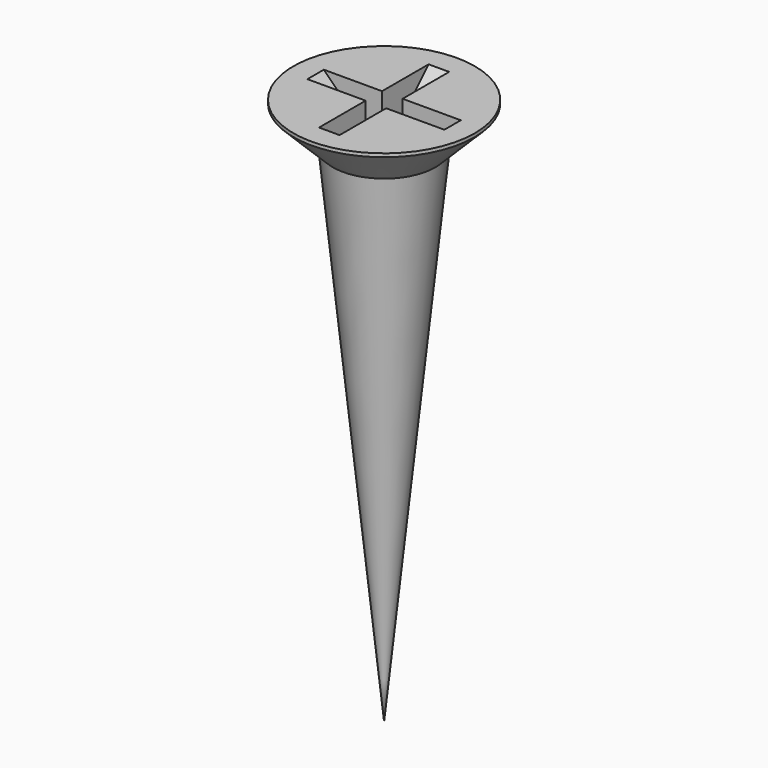
from build123d import *

# Parameters (mm, degrees)
POCKET_DEPTH       = 0.3
POLARPATTERN_COUNT = 2
POLARPATTERN_ANGLE = 90


with BuildPart() as part:
    # Sketch → Revolution (revolve)
    with BuildSketch(Plane.XZ):
        Polygon((0, 0), (0, -16), (1.5, -1.25), (2.65, -0.1), (2.65, 0), align=None)
    revolve(axis=Axis((0, 0, 0), (0, 0, 1)))

    # Sketch001 → Pocket (cut, symmetric)
    with BuildSketch(Plane.XZ):
        Polygon((-2, 0), (0, -2), (2, 0), align=None)
    pocket = extrude(amount=POCKET_DEPTH, both=True, mode=Mode.SUBTRACT)

    # PolarPattern: Pocket ×2 about axis
    polarpattern_axis = Axis((0, 0, 0), (0, 0, 1))
    for i in range(1, POLARPATTERN_COUNT):
        add(pocket.rotate(polarpattern_axis, i * POLARPATTERN_ANGLE / (POLARPATTERN_COUNT - 1)), mode=Mode.SUBTRACT)


solid = part.part
